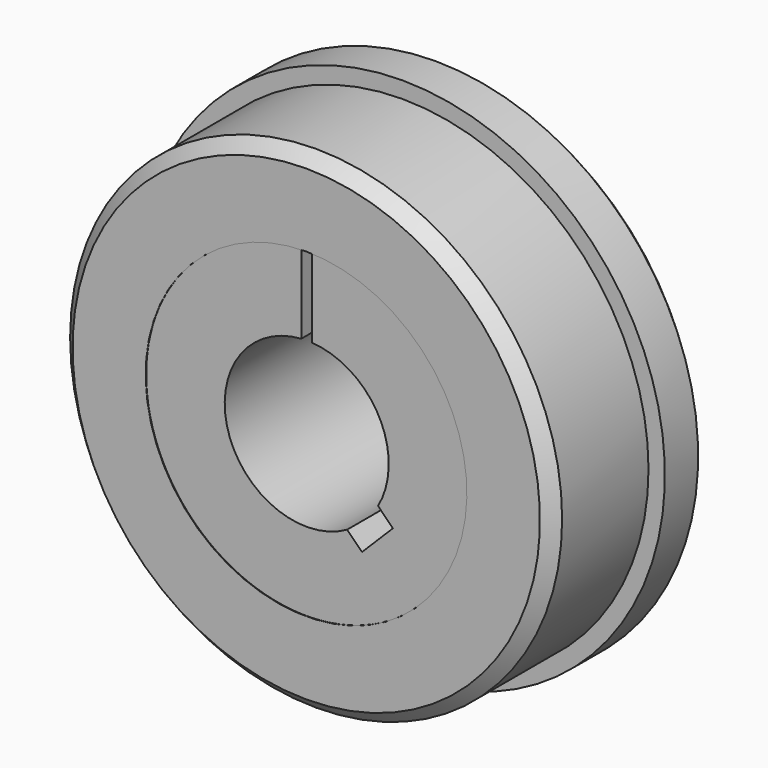
from build123d import *

# Parameters (mm, degrees)
F4_DEPTH = 31.901


with BuildPart() as f1:
    # F0 (on Right) → F1 (revolve)
    with BuildSketch(Plane.YZ):
        Polygon((0, 35.0176326981), (0, 45.6), (-2.4, 48), (-10, 48), (-10, 45), (-22, 45), (-29.75, 45), (-32, 42.75), (-32, 29.3751693154), (-31.9, 29.3928020135), (-0.1, 35), align=None)
    revolve(axis=Axis((0, -16, 0), (0, 1, 0)))


with BuildPart() as f2:
    # F0 (on Right) → F2 (revolve)
    with BuildSketch(Plane.YZ):
        Polygon((-0.1, 15), (-0.1, 35), (-31.9, 29.3928020135), (-31.9, 15), align=None)
    revolve(axis=Axis((0, -16, 0), (0, 1, 0)))

    # F3 (on face) → F4 (cut, through all)
    with BuildSketch(Plane(origin=(0, -0.1, 0), x_dir=(-1, 0, 0), z_dir=(0, 1, 0))):
        with BuildLine():
            Line((1, 35.0176326981), (-1, 35.0176326981))
            Line((-1, 35.0176326981), (-1, 14.9666295471))
            ThreePointArc((-1, 14.9666295471), (-13.2044625466, 7.1163311373), (-13.0509512749, -7.3940970254))
            Line((-13.0509512749, -7.3940970254), (-15.7684812205, -10.111626971))
            Line((-15.7684812205, -10.111626971), (-10.111626971, -15.7684812205))
            Line((-10.111626971, -15.7684812205), (-7.3940970254, -13.0509512749))
            ThreePointArc((-7.3940970254, -13.0509512749), (14.368971013, -4.3049590043), (1, 14.9666295471))
            Line((1, 14.9666295471), (1, 35.0176326981))
        make_face()
    extrude(amount=-F4_DEPTH, mode=Mode.SUBTRACT)


solid = Compound([f1.part, f2.part])
